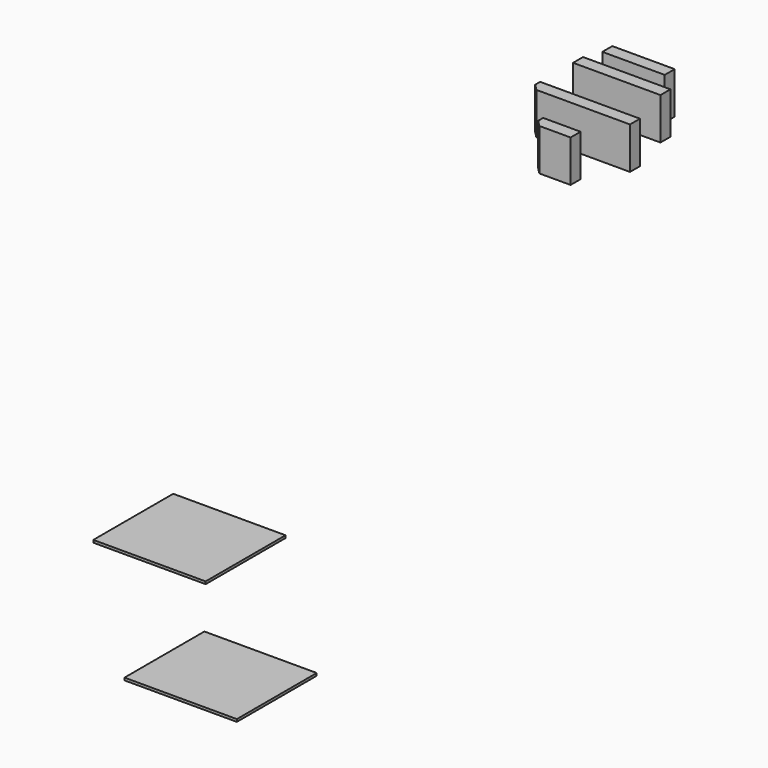
from build123d import *

# Parameters (mm, degrees)
BOX035_W           = 9
BOX035_H           = 8
BOX035_DEPTH       = 0.2
BOX031_W           = 3
BOX031_H           = 1
BOX031_DEPTH       = 3.35
CHAMFER002006_SIZE = 0.5
BOX028_W           = 8
BOX028_H           = 1
BOX028_DEPTH       = 3.35
CHAMFER002005_SIZE = 0.5
BOX029_W           = 7
BOX029_H           = 1
BOX029_DEPTH       = 3.35
BOX030_W           = 5
BOX030_H           = 1
BOX030_DEPTH       = 3.35
BOX034_W           = 9
BOX034_H           = 8
BOX034_DEPTH       = 0.2


with BuildPart() as probe_support_mid:
    # Box035 → Box035 (new body)
    with BuildSketch(Plane(origin=(19.5, -49, 8.9), x_dir=(1, 0, 0), z_dir=(0, 0, 1))):
        with Locations((4.5, 4)):
            Rectangle(BOX035_W, BOX035_H)
    extrude(amount=BOX035_DEPTH)


with BuildPart() as obj1:
    # Box031 → Box031 (new body)
    with BuildSketch(Plane(origin=(11.7, 4.8, 10.7), x_dir=(1, 0, 0), z_dir=(0, 0, 1))):
        with Locations((1.5, 0.5)):
            Rectangle(BOX031_W, BOX031_H)
    extrude(amount=BOX031_DEPTH)

    # Chamfer002006
    chamfer002006_edges = [obj1.edges().sort_by_distance(p)[0] for p in [
        (11.7, 4.8, 12.375),
    ]]
    chamfer(chamfer002006_edges, length=CHAMFER002006_SIZE)


with BuildPart() as obj2:
    # Box028 → Box028 (new body)
    with BuildSketch(Plane(origin=(8.5, 8.5, 10.7), x_dir=(1, 0, 0), z_dir=(0, 0, 1))):
        with Locations((4, 0.5)):
            Rectangle(BOX028_W, BOX028_H)
    extrude(amount=BOX028_DEPTH)

    # Chamfer002005
    chamfer002005_edges = [obj2.edges().sort_by_distance(p)[0] for p in [
        (8.5, 8.5, 12.375),
    ]]
    chamfer(chamfer002005_edges, length=CHAMFER002005_SIZE)


with BuildPart() as obj3:
    # Box029 → Box029 (new body)
    with BuildSketch(Plane(origin=(8.5, 12.8, 10.7), x_dir=(1, 0, 0), z_dir=(0, 0, 1))):
        with Locations((3.5, 0.5)):
            Rectangle(BOX029_W, BOX029_H)
    extrude(amount=BOX029_DEPTH)


with BuildPart() as obj4:
    # Box030 → Box030 (new body)
    with BuildSketch(Plane(origin=(9, 15.1, 10.7), x_dir=(1, 0, 0), z_dir=(0, 0, 1))):
        with Locations((2.5, 0.5)):
            Rectangle(BOX030_W, BOX030_H)
    extrude(amount=BOX030_DEPTH)


with BuildPart() as full_custom_support:
    # Box034 → Box034 (new body)
    with BuildSketch(Plane(origin=(22, -49, 0), x_dir=(1, 0, 0), z_dir=(0, 0, 1))):
        with Locations((4.5, 4)):
            Rectangle(BOX034_W, BOX034_H)
    extrude(amount=BOX034_DEPTH)

    # Fusion002010004002002006003002002004003: union probe-support-mid, obj1, obj2, obj3, obj4
    add(probe_support_mid.part)
    add(obj1.part)
    add(obj2.part)
    add(obj3.part)
    add(obj4.part)


solid = full_custom_support.part
